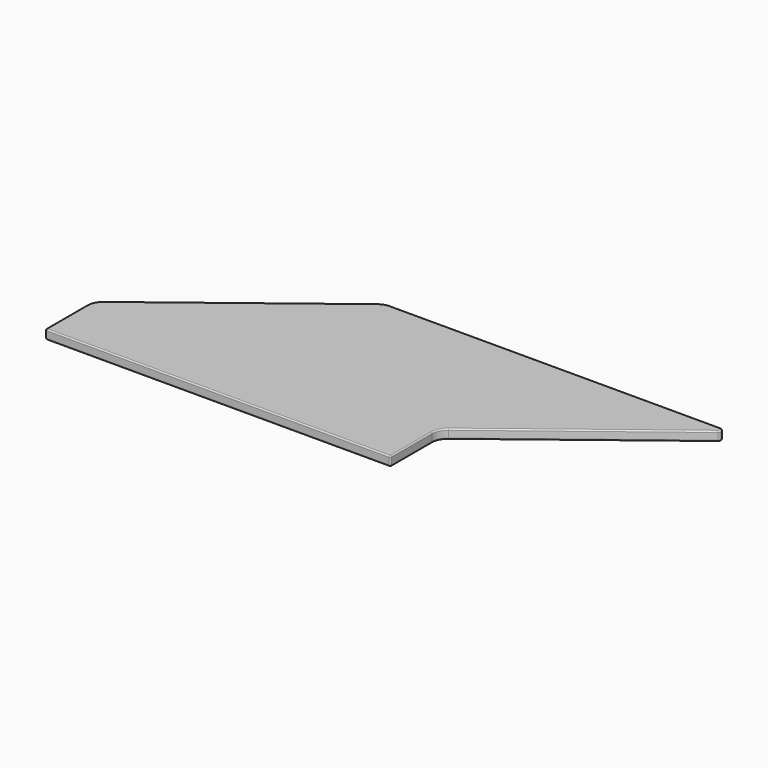
from build123d import *

# Parameters (mm, degrees)
F1_DEPTH = 3.7
F2_R     = 0.508


with BuildPart() as f1:
    # F0 (on Top) → F1 (new body)
    with BuildSketch(Plane.XY):
        with BuildLine():
            Line((0, 20.689665), (0, 0))
            Line((0, 0), (137.16, 0))
            Line((137.16, 0), (137.16, 20.689665))
            ThreePointArc((137.16, 20.689665), (137.811787, 23.491961), (139.633343, 25.718982))
            Line((139.633343, 25.718982), (205.826443, 76.7414))
            ThreePointArc((205.826443, 76.7414), (206.253265, 78.156808), (205.051112, 79.017263))
            Line((205.051112, 79.017263), (73.782288, 79.017263))
            ThreePointArc((73.782288, 79.017263), (71.734565, 78.678031), (69.905631, 77.69658))
            Line((69.905631, 77.69658), (2.473343, 25.718982))
            ThreePointArc((2.473343, 25.718982), (0.651787, 23.491961), (0, 20.689665))
        make_face()
    extrude(amount=F1_DEPTH)

    # F2
    f2_edges = [f1.edges().sort_by_distance(p)[0] for p in [
        (68.58, 0, 3.7),
        (68.58, 0, 0),
        (0, 0, 1.85),
        (0, 10.344832, 3.7),
        (137.16, 10.344832, 0),
        (137.16, 0, 1.85),
    ]]
    fillet(f2_edges, radius=F2_R)


solid = f1.part
